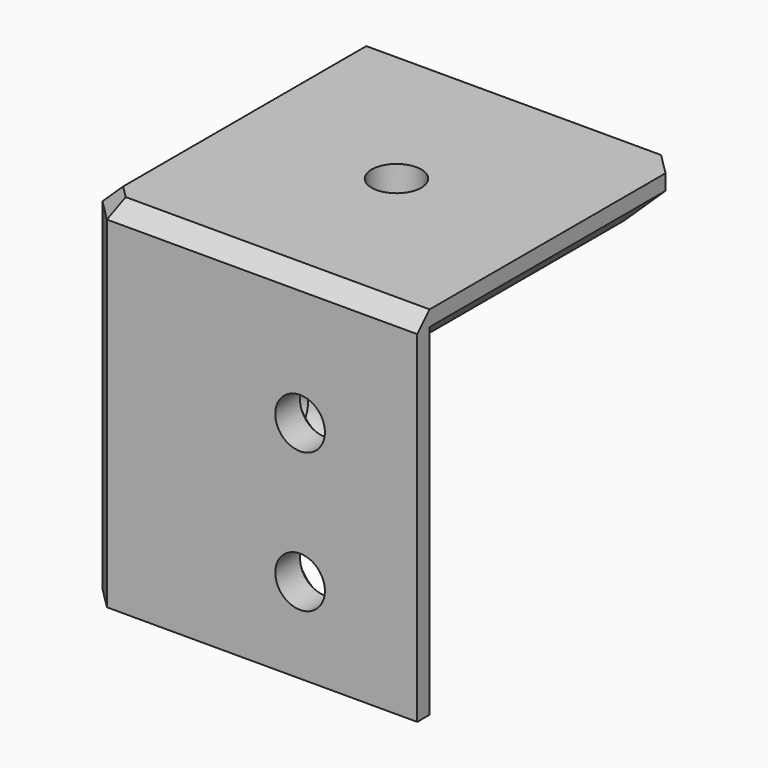
from build123d import *

# Parameters (mm, degrees)
PAD044_DEPTH    = 20
PAD045_DEPTH    = 3
CHAMFER020_SIZE = 2
CHAMFER021_SIZE = 1
SKETCH079_R     = 1.6
POCKET023_DEPTH = 5
CHAMFER022_SIZE = 1
SKETCH080_R     = 1.6
POCKET024_DEPTH = 3
CHAMFER023_SIZE = 1
SKETCH081_R     = 1.6
POCKET025_DEPTH = 3.001
CHAMFER024_SIZE = 1


with BuildPart() as part:
    # Sketch077 → Pad044 (new body)
    with BuildSketch(Plane.XY):
        Polygon((19.414214, 3), (8.313708, 3), (3, 8.313708), (3, 19.414214), (1, 21.414214), (0, 21.414214), (0, 1.414214), (1.414214, 0), (21.414214, 0), (21.414214, 1), align=None)
    extrude(amount=-PAD044_DEPTH)

    # Sketch078 → Pad045 (join)
    with BuildSketch(Plane.XY):
        Polygon((0, 21.414214), (20, 21.414214), (21.414214, 20), (21.414214, 0), (1.414214, 0), (0, 1.414214), align=None)
    extrude(amount=PAD045_DEPTH)

    # Chamfer020
    chamfer020_edges = [part.edges().sort_by_distance(p)[0] for p in [
        (21.414214, 10.5, 0),
        (20.707107, 20.707107, 0),
        (10.5, 21.414214, 0),
    ]]
    chamfer(chamfer020_edges, length=CHAMFER020_SIZE)

    # Chamfer021
    chamfer021_edges = [part.edges().sort_by_distance(p)[0] for p in [
        (0.707107, 0.707107, 3),
        (11.414214, 0, 3),
        (0, 11.414214, 3),
    ]]
    chamfer(chamfer021_edges, length=CHAMFER021_SIZE)

    # Sketch079 (on Face15 of Chamfer021) → Pocket023 (cut)
    with BuildSketch(Plane(origin=(0, 0, 0), x_dir=(1, 0, 0), z_dir=(0, 0, -1))):
        with Locations((11.207107, -11.085786)):
            Circle(SKETCH079_R)
    extrude(amount=-POCKET023_DEPTH, mode=Mode.SUBTRACT)

    # Chamfer022
    chamfer022_edges = [part.edges().sort_by_distance(p)[0] for p in [
        (9.607107, 11.085786, 0),
    ]]
    chamfer(chamfer022_edges, length=CHAMFER022_SIZE)

    # Sketch080 (on Face16 of Chamfer022) → Pocket024 (cut)
    with BuildSketch(Plane.YZ.offset(3)):
        with Locations((13.863961, -14.5)):
            Circle(SKETCH080_R)
        with Locations((13.863961, -5.5)):
            Circle(SKETCH080_R)
    extrude(amount=-POCKET024_DEPTH, mode=Mode.SUBTRACT)

    # Chamfer023
    chamfer023_edges = [part.edges().sort_by_distance(p)[0] for p in [
        (3, 12.263961, -14.5),
        (3, 12.263961, -5.5),
    ]]
    chamfer(chamfer023_edges, length=CHAMFER023_SIZE)

    # Sketch081 (on Face9 of Chamfer023) → Pocket025 (cut, through all)
    with BuildSketch(Plane(origin=(0, 3, 0), x_dir=(-1, 0, 0), z_dir=(0, 1, 0))):
        with Locations((-13.863961, -5.5)):
            Circle(SKETCH081_R)
        with Locations((-13.863961, -14.5)):
            Circle(SKETCH081_R)
    extrude(amount=-POCKET025_DEPTH, mode=Mode.SUBTRACT)

    # Chamfer024
    chamfer024_edges = [part.edges().sort_by_distance(p)[0] for p in [
        (15.463961, 3, -5.5),
        (15.463961, 3, -14.5),
    ]]
    chamfer(chamfer024_edges, length=CHAMFER024_SIZE)


with BuildPart() as part_1:
    # Body076 placement: moved
    add(part.part.moved(Location((0, 0, -18))))


solid = part_1.part
